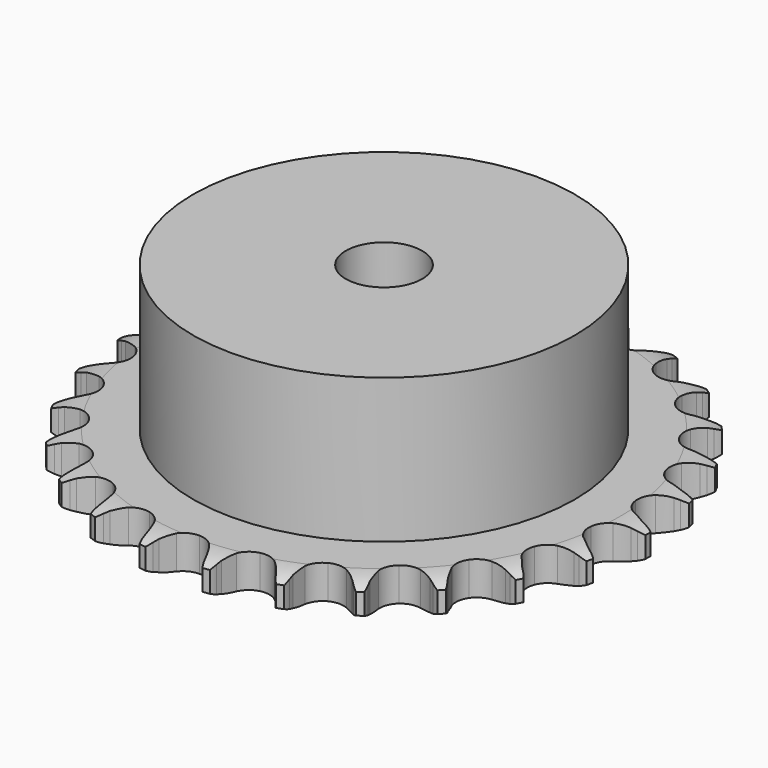
from build123d import *

# Parameters (mm, degrees)
PAD_DEPTH         = 5.3
SKETCH001_R       = 30
PAD001_DEPTH      = 28
SKETCH002_R       = 6
POCKET_DEPTH      = 0.001
POCKET_DEPTH_BACK = -28.001


with BuildPart() as part:
    # Sprocket → Pad (new body)
    with BuildSketch(Plane.XY):
        with BuildLine():
            ThreePointArc((-5.105702, 42.049237), (-4.468406, 41.247291), (-4.001262, 40.335676))
            Line((-4.001262, 40.335676), (-3.692267, 39.549699))
            ThreePointArc((-3.692267, 39.549699), (-3.199397, 38.512795), (-2.568301, 37.553728))
            ThreePointArc((-2.568301, 37.553728), (-1.432997, 36.617216), (0, 36.281819))
            ThreePointArc((0, 36.281819), (1.432997, 36.617216), (2.568301, 37.553728))
            ThreePointArc((2.568301, 37.553728), (3.199397, 38.512795), (3.692267, 39.549699))
            Line((3.692267, 39.549699), (4.001262, 40.335676))
            ThreePointArc((4.001262, 40.335676), (4.468406, 41.247291), (5.105702, 42.049237))
            ThreePointArc((5.105702, 42.049237), (5.53256, 41.118079), (5.767966, 40.121159))
            Line((5.767966, 40.121159), (5.879886, 39.284074))
            ThreePointArc((5.879886, 39.284074), (6.110287, 38.159349), (6.493524, 37.07712))
            ThreePointArc((6.493524, 37.07712), (7.371716, 35.896125), (8.682808, 35.227536))
            ThreePointArc((8.682808, 35.227536), (10.15443, 35.210247), (11.480867, 35.84785))
            Line((11.480867, 35.84785), (13.049839, 37.516839))
            ThreePointArc((13.049839, 37.516839), (13.285133, 37.86764), (13.537952, 38.20603))
            ThreePointArc((13.537952, 38.20603), (14.209685, 38.97936), (15.020381, 39.605489))
            ThreePointArc((15.020381, 39.605489), (15.211994, 38.599234), (15.201982, 37.574947))
            Line((15.201982, 37.574947), (15.110322, 36.735401))
            ThreePointArc((15.110322, 36.735401), (15.064863, 35.58822), (15.17797, 34.445724))
            ThreePointArc((15.17797, 34.445724), (15.748013, 33.088881), (16.861002, 32.125956))
            ThreePointArc((16.861002, 32.125956), (18.285725, 31.756987), (19.726206, 32.058626))
            Line((19.726206, 32.058626), (21.649001, 33.303637))
            ThreePointArc((21.649001, 33.303637), (21.961411, 33.587935), (22.287865, 33.855988))
            ThreePointArc((22.287865, 33.855988), (23.125149, 34.44609), (24.062129, 34.860013))
            ThreePointArc((24.062129, 34.860013), (24.007363, 33.837142), (23.752513, 32.845015))
            Line((23.752513, 32.845015), (23.4626, 32.0518))
            ThreePointArc((23.4626, 32.0518), (23.143924, 30.948833), (22.980327, 29.812468))
            ThreePointArc((22.980327, 29.812468), (23.209092, 28.358632), (24.059297, 27.157332))
            ThreePointArc((24.059297, 27.157332), (25.354319, 26.458127), (26.825129, 26.40627))
            Line((26.825129, 26.40627), (28.990003, 27.154949))
            ThreePointArc((28.990003, 27.154949), (29.361371, 27.356221), (29.742489, 27.538359))
            ThreePointArc((29.742489, 27.538359), (30.696663, 27.910939), (31.705475, 28.0886))
            ThreePointArc((31.705475, 28.0886), (31.40751, 27.108558), (30.922635, 26.20625))
            Line((30.922635, 26.20625), (30.451317, 25.505466))
            ThreePointArc((30.451317, 25.505466), (29.877944, 24.510813), (29.447151, 23.44662))
            ThreePointArc((29.447151, 23.44662), (29.321342, 21.980283), (29.859352, 20.610423))
            ThreePointArc((29.859352, 20.610423), (30.949413, 19.621616), (32.365074, 19.219279))
            Line((32.365074, 19.219279), (34.646211, 19.428114))
            ThreePointArc((34.646211, 19.428114), (35.054955, 19.534663), (35.468587, 19.620301))
            ThreePointArc((35.468587, 19.620301), (36.484199, 19.753705), (37.506213, 19.684779))
            ThreePointArc((37.506213, 19.684779), (36.982368, 18.804523), (36.295645, 18.044473))
            Line((36.295645, 18.044473), (35.670315, 17.476846))
            ThreePointArc((35.670315, 17.476846), (34.875567, 16.648313), (34.202614, 15.718139))
            ThreePointArc((34.202614, 15.718139), (33.729544, 14.324519), (33.924091, 12.86571))
            ThreePointArc((33.924091, 12.86571), (34.745839, 11.644768), (36.024078, 10.915332))
            Line((36.024078, 10.915332), (38.288907, 10.572187))
            ThreePointArc((38.288907, 10.572187), (38.711273, 10.577821), (39.13338, 10.561983))
            ThreePointArc((39.13338, 10.561983), (40.151405, 10.448458), (41.127227, 10.136951))
            ThreePointArc((41.127227, 10.136951), (40.407944, 9.407638), (39.559285, 8.834017))
            Line((39.559285, 8.834017), (38.816283, 8.432535))
            ThreePointArc((38.816283, 8.432535), (37.846349, 7.818274), (36.970345, 7.076177))
            ThreePointArc((36.970345, 7.076177), (36.177506, 5.836267), (36.017284, 4.37329))
            ThreePointArc((36.017284, 4.37329), (36.522964, 2.991169), (37.589494, 1.977026))
            Line((37.589494, 1.977026), (39.706391, 1.101843))
            ThreePointArc((39.706391, 1.101843), (40.117832, 1.006235), (40.523883, 0.88984))
            ThreePointArc((40.523883, 0.88984), (41.485158, 0.535985), (42.358076, 0))
            ThreePointArc((42.358076, 0), (41.485158, -0.535985), (40.523883, -0.88984))
            Line((40.523883, -0.88984), (39.706391, -1.101843))
            ThreePointArc((39.706391, -1.101843), (38.617638, -1.466135), (37.589494, -1.977026))
            ThreePointArc((37.589494, -1.977026), (36.522964, -2.991169), (36.017284, -4.37329))
            ThreePointArc((36.017284, -4.37329), (36.177506, -5.836267), (36.970345, -7.076177))
            Line((36.970345, -7.076177), (38.816283, -8.432535))
            ThreePointArc((38.816283, -8.432535), (39.192888, -8.62383), (39.559285, -8.834017))
            ThreePointArc((39.559285, -8.834017), (40.407944, -9.407638), (41.127227, -10.136951))
            ThreePointArc((41.127227, -10.136951), (40.151405, -10.448458), (39.13338, -10.561983))
            Line((39.13338, -10.561983), (38.288907, -10.572187))
            ThreePointArc((38.288907, -10.572187), (37.144611, -10.665337), (36.024078, -10.915332))
            ThreePointArc((36.024078, -10.915332), (34.745839, -11.644768), (33.924091, -12.86571))
            ThreePointArc((33.924091, -12.86571), (33.729544, -14.324519), (34.202614, -15.718139))
            Line((34.202614, -15.718139), (35.670315, -17.476846))
            ThreePointArc((35.670315, -17.476846), (35.990197, -17.752709), (36.295645, -18.044473))
            ThreePointArc((36.295645, -18.044473), (36.982368, -18.804523), (37.506213, -19.684779))
            ThreePointArc((37.506213, -19.684779), (36.484199, -19.753705), (35.468587, -19.620301))
            Line((35.468587, -19.620301), (34.646211, -19.428114))
            ThreePointArc((34.646211, -19.428114), (33.512873, -19.244709), (32.365074, -19.219279))
            ThreePointArc((32.365074, -19.219279), (30.949413, -19.621616), (29.859352, -20.610423))
            ThreePointArc((29.859352, -20.610423), (29.321342, -21.980283), (29.447151, -23.44662))
            Line((29.447151, -23.44662), (30.451317, -25.505466))
            ThreePointArc((30.451317, -25.505466), (30.695885, -25.849866), (30.922635, -26.20625))
            ThreePointArc((30.922635, -26.20625), (31.40751, -27.108558), (31.705475, -28.0886))
            ThreePointArc((31.705475, -28.0886), (30.696663, -27.910939), (29.742489, -27.538359))
            Line((29.742489, -27.538359), (28.990003, -27.154949))
            ThreePointArc((28.990003, -27.154949), (27.93349, -26.705648), (26.825129, -26.40627))
            ThreePointArc((26.825129, -26.40627), (25.354319, -26.458127), (24.059297, -27.157332))
            ThreePointArc((24.059297, -27.157332), (23.209092, -28.358632), (22.980327, -29.812468))
            Line((22.980327, -29.812468), (23.4626, -32.0518))
            ThreePointArc((23.4626, -32.0518), (23.617641, -32.444722), (23.752513, -32.845015))
            ThreePointArc((23.752513, -32.845015), (24.007363, -33.837142), (24.062129, -34.860013))
            ThreePointArc((24.062129, -34.860013), (23.125149, -34.44609), (22.287865, -33.855988))
            Line((22.287865, -33.855988), (21.649001, -33.303637))
            ThreePointArc((21.649001, -33.303637), (20.730713, -32.614552), (19.726206, -32.058626))
            ThreePointArc((19.726206, -32.058626), (18.285725, -31.756987), (16.861002, -32.125956))
            ThreePointArc((16.861002, -32.125956), (15.748013, -33.088881), (15.17797, -34.445724))
            Line((15.17797, -34.445724), (15.110322, -36.735401))
            ThreePointArc((15.110322, -36.735401), (15.166825, -37.154009), (15.201982, -37.574947))
            ThreePointArc((15.201982, -37.574947), (15.211994, -38.599234), (15.020381, -39.605489))
            ThreePointArc((15.020381, -39.605489), (14.209685, -38.97936), (13.537952, -38.20603))
            Line((13.537952, -38.20603), (13.049839, -37.516839))
            ThreePointArc((13.049839, -37.516839), (12.323143, -36.628017), (11.480867, -35.84785))
            ThreePointArc((11.480867, -35.84785), (10.15443, -35.210247), (8.682808, -35.227536))
            ThreePointArc((8.682808, -35.227536), (7.371716, -35.896125), (6.493524, -37.07712))
            Line((6.493524, -37.07712), (5.879886, -39.284074))
            ThreePointArc((5.879886, -39.284074), (5.834568, -39.704039), (5.767966, -40.121159))
            ThreePointArc((5.767966, -40.121159), (5.53256, -41.118079), (5.105702, -42.049237))
            ThreePointArc((5.105702, -42.049237), (4.468406, -41.247291), (4.001262, -40.335676))
            Line((4.001262, -40.335676), (3.692267, -39.549699))
            ThreePointArc((3.692267, -39.549699), (3.199397, -38.512795), (2.568301, -37.553728))
            ThreePointArc((2.568301, -37.553728), (1.432997, -36.617216), (0, -36.281819))
            ThreePointArc((0, -36.281819), (-1.432997, -36.617216), (-2.568301, -37.553728))
            Line((-2.568301, -37.553728), (-3.692267, -39.549699))
            ThreePointArc((-3.692267, -39.549699), (-3.836772, -39.946616), (-4.001262, -40.335676))
            ThreePointArc((-4.001262, -40.335676), (-4.468406, -41.247291), (-5.105702, -42.049237))
            ThreePointArc((-5.105702, -42.049237), (-5.53256, -41.118079), (-5.767966, -40.121159))
            Line((-5.767966, -40.121159), (-5.879886, -39.284074))
            ThreePointArc((-5.879886, -39.284074), (-6.110287, -38.159349), (-6.493524, -37.07712))
            ThreePointArc((-6.493524, -37.07712), (-7.371716, -35.896125), (-8.682808, -35.227536))
            ThreePointArc((-8.682808, -35.227536), (-10.15443, -35.210247), (-11.480867, -35.84785))
            Line((-11.480867, -35.84785), (-13.049839, -37.516839))
            ThreePointArc((-13.049839, -37.516839), (-13.285133, -37.86764), (-13.537952, -38.20603))
            ThreePointArc((-13.537952, -38.20603), (-14.209685, -38.97936), (-15.020381, -39.605489))
            ThreePointArc((-15.020381, -39.605489), (-15.211994, -38.599234), (-15.201982, -37.574947))
            Line((-15.201982, -37.574947), (-15.110322, -36.735401))
            ThreePointArc((-15.110322, -36.735401), (-15.064863, -35.58822), (-15.17797, -34.445724))
            ThreePointArc((-15.17797, -34.445724), (-15.748013, -33.088881), (-16.861002, -32.125956))
            ThreePointArc((-16.861002, -32.125956), (-18.285725, -31.756987), (-19.726206, -32.058626))
            Line((-19.726206, -32.058626), (-21.649001, -33.303637))
            ThreePointArc((-21.649001, -33.303637), (-21.961411, -33.587935), (-22.287865, -33.855988))
            ThreePointArc((-22.287865, -33.855988), (-23.125149, -34.44609), (-24.062129, -34.860013))
            ThreePointArc((-24.062129, -34.860013), (-24.007363, -33.837142), (-23.752513, -32.845015))
            Line((-23.752513, -32.845015), (-23.4626, -32.0518))
            ThreePointArc((-23.4626, -32.0518), (-23.143924, -30.948833), (-22.980327, -29.812468))
            ThreePointArc((-22.980327, -29.812468), (-23.209092, -28.358632), (-24.059297, -27.157332))
            ThreePointArc((-24.059297, -27.157332), (-25.354319, -26.458127), (-26.825129, -26.40627))
            Line((-26.825129, -26.40627), (-28.990003, -27.154949))
            ThreePointArc((-28.990003, -27.154949), (-29.361371, -27.356221), (-29.742489, -27.538359))
            ThreePointArc((-29.742489, -27.538359), (-30.696663, -27.910939), (-31.705475, -28.0886))
            ThreePointArc((-31.705475, -28.0886), (-31.40751, -27.108558), (-30.922635, -26.20625))
            Line((-30.922635, -26.20625), (-30.451317, -25.505466))
            ThreePointArc((-30.451317, -25.505466), (-29.877944, -24.510813), (-29.447151, -23.44662))
            ThreePointArc((-29.447151, -23.44662), (-29.321342, -21.980283), (-29.859352, -20.610423))
            ThreePointArc((-29.859352, -20.610423), (-30.949413, -19.621616), (-32.365074, -19.219279))
            Line((-32.365074, -19.219279), (-34.646211, -19.428114))
            ThreePointArc((-34.646211, -19.428114), (-35.054955, -19.534663), (-35.468587, -19.620301))
            ThreePointArc((-35.468587, -19.620301), (-36.484199, -19.753705), (-37.506213, -19.684779))
            ThreePointArc((-37.506213, -19.684779), (-36.982368, -18.804523), (-36.295645, -18.044473))
            Line((-36.295645, -18.044473), (-35.670315, -17.476846))
            ThreePointArc((-35.670315, -17.476846), (-34.875567, -16.648313), (-34.202614, -15.718139))
            ThreePointArc((-34.202614, -15.718139), (-33.729544, -14.324519), (-33.924091, -12.86571))
            ThreePointArc((-33.924091, -12.86571), (-34.745839, -11.644768), (-36.024078, -10.915332))
            Line((-36.024078, -10.915332), (-38.288907, -10.572187))
            ThreePointArc((-38.288907, -10.572187), (-38.711273, -10.577821), (-39.13338, -10.561983))
            ThreePointArc((-39.13338, -10.561983), (-40.151405, -10.448458), (-41.127227, -10.136951))
            ThreePointArc((-41.127227, -10.136951), (-40.407944, -9.407638), (-39.559285, -8.834017))
            Line((-39.559285, -8.834017), (-38.816283, -8.432535))
            ThreePointArc((-38.816283, -8.432535), (-37.846349, -7.818274), (-36.970345, -7.076177))
            ThreePointArc((-36.970345, -7.076177), (-36.177506, -5.836267), (-36.017284, -4.37329))
            ThreePointArc((-36.017284, -4.37329), (-36.522964, -2.991169), (-37.589494, -1.977026))
            Line((-37.589494, -1.977026), (-39.706391, -1.101843))
            ThreePointArc((-39.706391, -1.101843), (-40.117832, -1.006235), (-40.523883, -0.88984))
            ThreePointArc((-40.523883, -0.88984), (-41.485158, -0.535985), (-42.358076, 0))
            ThreePointArc((-42.358076, 0), (-41.485158, 0.535985), (-40.523883, 0.88984))
            Line((-40.523883, 0.88984), (-39.706391, 1.101843))
            ThreePointArc((-39.706391, 1.101843), (-38.617638, 1.466135), (-37.589494, 1.977026))
            ThreePointArc((-37.589494, 1.977026), (-36.522964, 2.991169), (-36.017284, 4.37329))
            ThreePointArc((-36.017284, 4.37329), (-36.177506, 5.836267), (-36.970345, 7.076177))
            Line((-36.970345, 7.076177), (-38.816283, 8.432535))
            ThreePointArc((-38.816283, 8.432535), (-39.192888, 8.62383), (-39.559285, 8.834017))
            ThreePointArc((-39.559285, 8.834017), (-40.407944, 9.407638), (-41.127227, 10.136951))
            ThreePointArc((-41.127227, 10.136951), (-40.151405, 10.448458), (-39.13338, 10.561983))
            Line((-39.13338, 10.561983), (-38.288907, 10.572187))
            ThreePointArc((-38.288907, 10.572187), (-37.144611, 10.665337), (-36.024078, 10.915332))
            ThreePointArc((-36.024078, 10.915332), (-34.745839, 11.644768), (-33.924091, 12.86571))
            ThreePointArc((-33.924091, 12.86571), (-33.729544, 14.324519), (-34.202614, 15.718139))
            Line((-34.202614, 15.718139), (-35.670315, 17.476846))
            ThreePointArc((-35.670315, 17.476846), (-35.990197, 17.752709), (-36.295645, 18.044473))
            ThreePointArc((-36.295645, 18.044473), (-36.982368, 18.804523), (-37.506213, 19.684779))
            ThreePointArc((-37.506213, 19.684779), (-36.484199, 19.753705), (-35.468587, 19.620301))
            Line((-35.468587, 19.620301), (-34.646211, 19.428114))
            ThreePointArc((-34.646211, 19.428114), (-33.512873, 19.244709), (-32.365074, 19.219279))
            ThreePointArc((-32.365074, 19.219279), (-30.949413, 19.621616), (-29.859352, 20.610423))
            ThreePointArc((-29.859352, 20.610423), (-29.321342, 21.980283), (-29.447151, 23.44662))
            Line((-29.447151, 23.44662), (-30.451317, 25.505466))
            ThreePointArc((-30.451317, 25.505466), (-30.695885, 25.849866), (-30.922635, 26.20625))
            ThreePointArc((-30.922635, 26.20625), (-31.40751, 27.108558), (-31.705475, 28.0886))
            ThreePointArc((-31.705475, 28.0886), (-30.696663, 27.910939), (-29.742489, 27.538359))
            Line((-29.742489, 27.538359), (-28.990003, 27.154949))
            ThreePointArc((-28.990003, 27.154949), (-27.93349, 26.705648), (-26.825129, 26.40627))
            ThreePointArc((-26.825129, 26.40627), (-25.354319, 26.458127), (-24.059297, 27.157332))
            ThreePointArc((-24.059297, 27.157332), (-23.209092, 28.358632), (-22.980327, 29.812468))
            Line((-22.980327, 29.812468), (-23.4626, 32.0518))
            ThreePointArc((-23.4626, 32.0518), (-23.617641, 32.444722), (-23.752513, 32.845015))
            ThreePointArc((-23.752513, 32.845015), (-24.007363, 33.837142), (-24.062129, 34.860013))
            ThreePointArc((-24.062129, 34.860013), (-23.125149, 34.44609), (-22.287865, 33.855988))
            Line((-22.287865, 33.855988), (-21.649001, 33.303637))
            ThreePointArc((-21.649001, 33.303637), (-20.730713, 32.614552), (-19.726206, 32.058626))
            ThreePointArc((-19.726206, 32.058626), (-18.285725, 31.756987), (-16.861002, 32.125956))
            ThreePointArc((-16.861002, 32.125956), (-15.748013, 33.088881), (-15.17797, 34.445724))
            Line((-15.17797, 34.445724), (-15.110322, 36.735401))
            ThreePointArc((-15.110322, 36.735401), (-15.166825, 37.154009), (-15.201982, 37.574947))
            ThreePointArc((-15.201982, 37.574947), (-15.211994, 38.599234), (-15.020381, 39.605489))
            ThreePointArc((-15.020381, 39.605489), (-14.209685, 38.97936), (-13.537952, 38.20603))
            Line((-13.537952, 38.20603), (-13.049839, 37.516839))
            ThreePointArc((-13.049839, 37.516839), (-12.323143, 36.628017), (-11.480867, 35.84785))
            ThreePointArc((-11.480867, 35.84785), (-10.15443, 35.210247), (-8.682808, 35.227536))
            ThreePointArc((-8.682808, 35.227536), (-7.371716, 35.896125), (-6.493524, 37.07712))
            Line((-6.493524, 37.07712), (-5.879886, 39.284074))
            ThreePointArc((-5.879886, 39.284074), (-5.834568, 39.704039), (-5.767966, 40.121159))
            ThreePointArc((-5.767966, 40.121159), (-5.53256, 41.118079), (-5.105702, 42.049237))
        make_face()
    extrude(amount=PAD_DEPTH)

    # Sketch → Groove (revolve, cut)
    with BuildSketch(Plane.XZ):
        with BuildLine():
            Line((37.141101, 0), (41.5, 0))
            Line((45.858899, 0), (41.5, 0))
            Line((45.858899, 5.3), (45.858899, 0))
            Line((41.5, 5.3), (45.858899, 5.3))
            Line((37.141101, 5.3), (41.5, 5.3))
            ThreePointArc((41.5, 4.3), (39.377169, 5.046794), (37.141101, 5.3))
            Line((41.5, 1), (41.5, 4.3))
            ThreePointArc((37.141101, 0), (39.377169, 0.253206), (41.5, 1))
        make_face()
    revolve(axis=Axis((0, 0, 0), (0, 0, 1)), mode=Mode.SUBTRACT)

    # Sketch001 → Pad001 (join)
    with BuildSketch(Plane.XY):
        Circle(SKETCH001_R)
    extrude(amount=PAD001_DEPTH)

    # Sketch002 → Pocket (cut, two sides)
    with BuildSketch(Plane.XY) as pocket_sk:
        Circle(SKETCH002_R)
    extrude(amount=-POCKET_DEPTH, mode=Mode.SUBTRACT)
    extrude(pocket_sk.sketch, amount=-POCKET_DEPTH_BACK, mode=Mode.SUBTRACT)


solid = part.part
